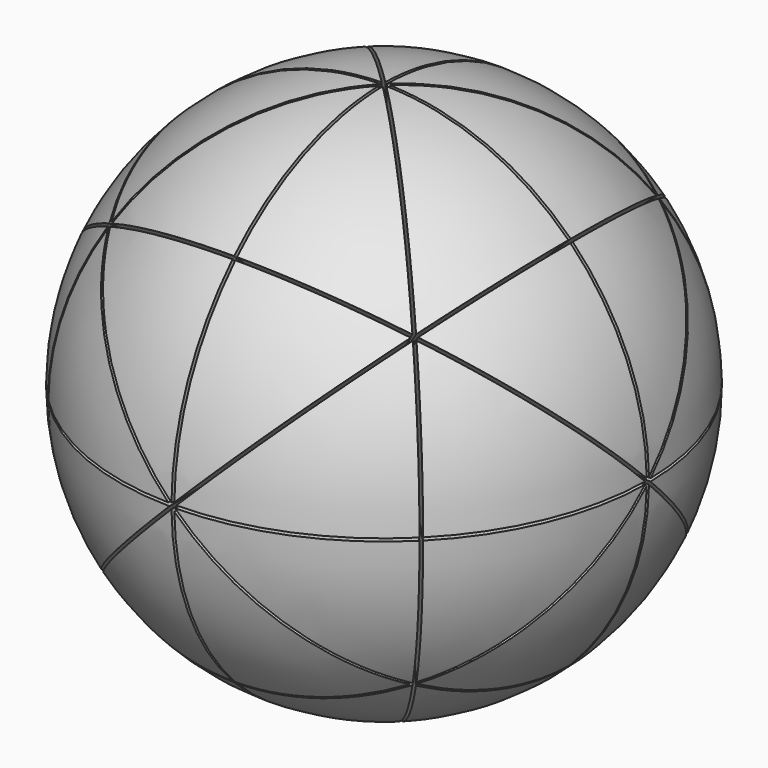
from build123d import *

# Parameters (mm, degrees)
F3_DEPTH       = 584.201
F3_DEPTH_BACK  = 584.201
F4_W           = 1168.4
F4_H           = 6.35
F5_DEPTH       = 584.1923722189
F5_DEPTH_BACK  = 584.1923722189
F13_DEPTH      = 744.2172068463
F13_DEPTH_BACK = 1279.4531812549
F15_DEPTH      = 1279.4531812549
F15_DEPTH_BACK = 744.2172068463
F17_DEPTH      = 1279.4227675991
F17_DEPTH_BACK = 744.1867931905


with BuildPart() as f1:
    # F0 (on Front) → F1 (revolve)
    with BuildSketch(Plane.XZ):
        with BuildLine():
            ThreePointArc((0, -457.2), (-457.2, 0), (0, 457.2))
            Line((0, 457.2), (0, 584.2))
            ThreePointArc((0, 584.2), (-584.2, 0), (0, -584.2))
            Line((0, -584.2), (0, -457.2))
        make_face()
    revolve(axis=Axis((0, 0, 0), (0, 0, -1)))

    # F2 (on Top) → F3 (cut, two sides)
    with BuildSketch(Plane.XY) as f3_sk:
        Polygon((584.2, 3.175), (3.175, 3.175), (3.175, 584.2), (-3.175, 584.2), (-3.175, 3.175), (-584.2, 3.175), (-584.2, -3.175), (-3.175, -3.175), (-3.175, -584.2), (3.175, -584.2), (3.175, -3.175), (584.2, -3.175), align=None)
    extrude(amount=-F3_DEPTH, mode=Mode.SUBTRACT)
    extrude(f3_sk.sketch, amount=F3_DEPTH_BACK, mode=Mode.SUBTRACT)

    # F4 (on Right) → F5 (cut, two sides)
    with BuildSketch(Plane.YZ) as f5_sk:
        with Locations((-0.0086277811, 0)):
            Rectangle(F4_W, F4_H)
    extrude(amount=-F5_DEPTH, mode=Mode.SUBTRACT)
    extrude(f5_sk.sketch, amount=F5_DEPTH_BACK, mode=Mode.SUBTRACT)

    # F12 (on 3pt) → F13 (cut, two sides)
    with BuildSketch(Plane(origin=(-154.5093169524, -154.5093169524, 154.5093169524), x_dir=(0.8164965809, -0.4082482905, 0.4082482905), z_dir=(-0.5773502692, -0.5773502692, 0.5773502692))) as f13_sk:
        Polygon((-0.0134867911, -6.3733598075), (1.8330871047, -3.175), (5.4724847383, -3.175), (3.6661413755, -0.0155160562), (5.5262348963, 3.175), (1.8330871047, 3.175), (0.0133882879, 6.3268108052), (-1.819633389, 3.1827295932), (-5.5127481052, 3.1983598075), (-3.6661742094, 0), (-5.4858730262, -3.1518108052), (-1.8465079866, -3.167213537), align=None)
        Polygon((5.4724847383, -3.175), (1.8330871047, -3.175), (-0.0134867911, -6.3733598075), (297.2435759781, -526.307131187), (302.7562253402, -523.1554337061), align=None)
        Polygon((3.6661413755, -0.0155160562), (5.4724847383, -3.175), (788.271078095, -3.175), (768.833220005, 3.175), (5.5262348963, 3.175), align=None)
        Polygon((-299.4683615165, -525.0444174059), (-0.0134867911, -6.3733598075), (-1.8465079866, -3.167213537), (-5.4858730262, -3.1518108052), (-304.9676228305, -521.8694174059), align=None)
        Polygon((1.8330871047, 3.175), (5.5262348963, 3.175), (340.3949148714, 577.5568191126), (334.9091401069, 580.7550647619), (0.0133882879, 6.3268108052), align=None)
        Polygon((-788.2774557298, 0.1611651327), (-5.4858730262, -3.1518108052), (-3.6661742094, 0), (-5.5127481052, 3.1983598075), (-768.8128971254, 6.4288429692), align=None)
        Polygon((-1.819633389, 3.1827295932), (0.0133882879, 6.3268108052), (-332.4482574437, 582.1672727802), (-337.9475187577, 578.9922727802), (-5.5127481052, 3.1983598075), align=None)
    extrude(amount=F13_DEPTH, mode=Mode.SUBTRACT)
    extrude(f13_sk.sketch, amount=-F13_DEPTH_BACK, mode=Mode.SUBTRACT)

    # F14 (on 3pt) → F15 (cut, two sides)
    with BuildSketch(Plane(origin=(154.5093169524, 154.5093169524, 154.5093169524), x_dir=(-0.4082482905, 0.8164965809, -0.4082482905), z_dir=(0.5773502692, 0.5773502692, 0.5773502692))) as f15_sk:
        Polygon((-933.4455728531, -3.175), (-5.499261314, -3.175), (-473.5140579649, -813.8004064934), (-348.9356712306, -610.7243111446), (1.8330871047, -3.175), (919.561445713, -3.175), (919.561445713, 3.175), (5.499261314, 3.175), (433.5455265406, 744.5728793625), (428.0462652266, 747.7478793625), (-1.8330871047, 3.175), (-933.4455728531, 3.175), align=None)
    extrude(amount=-F15_DEPTH, mode=Mode.SUBTRACT)
    extrude(f15_sk.sketch, amount=F15_DEPTH_BACK, mode=Mode.SUBTRACT)

    # F16 (on 3pt) → F17 (cut, two sides)
    with BuildSketch(Plane(origin=(-154.5093169524, 154.5093169524, 154.5093169524), x_dir=(-0.8164965809, -0.4082482905, -0.4082482905), z_dir=(-0.5773502692, 0.5773502692, 0.5773502692))) as f17_sk:
        Polygon((291.4733640527, -498.4966755923), (2.749630657, 1.5875), (-544.7484619456, 949.8820134348), (-550.2477232596, 946.7070134348), (-2.749630657, -1.5875), (285.9741027387, -501.6716755923), align=None)
    extrude(amount=-F17_DEPTH, mode=Mode.SUBTRACT)
    extrude(f17_sk.sketch, amount=F17_DEPTH_BACK, mode=Mode.SUBTRACT)


solid = f1.part
